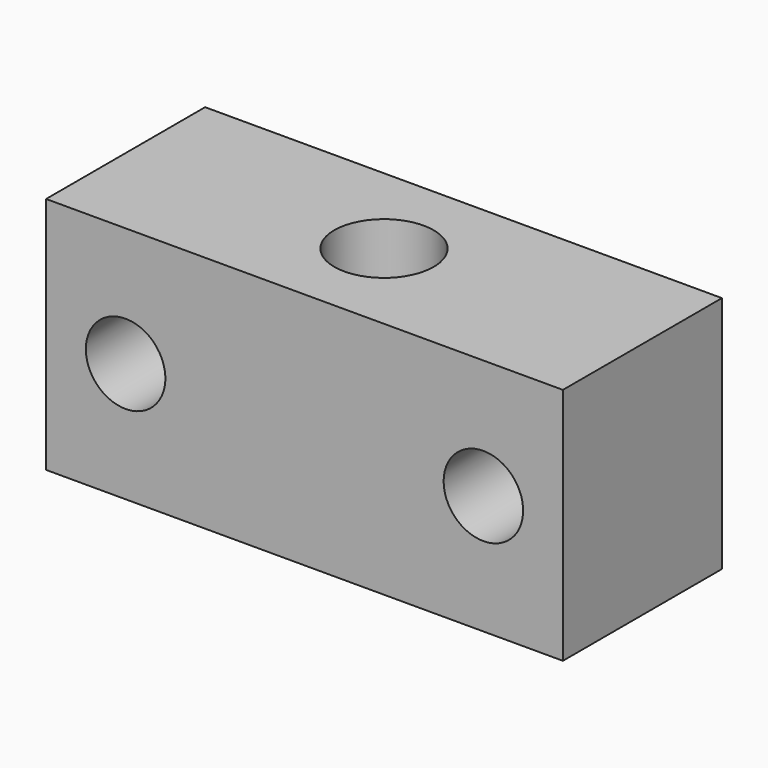
from build123d import *

# Parameters (mm, degrees)
F0_W     = 41.275
F0_H     = 15.875
F1_DEPTH = 19.05
F3_D     = 7.9375
F5_D     = 6.35


with BuildPart() as f1:
    # F0 (on Top) → F1 (new body)
    with BuildSketch(Plane.XY):
        with Locations((20.6375, 7.9375)):
            Rectangle(F0_W, F0_H)
    extrude(amount=F1_DEPTH)

    # F3 (through all)
    with Locations(Plane.XY.offset(19.05)):
        with Locations((20.6375, 7.9375)):
            Hole(F3_D / 2)

    # F5 (through all)
    with Locations(Plane.XZ):
        with Locations((6.35, 9.525), (34.925, 9.525)):
            Hole(F5_D / 2)


solid = f1.part
